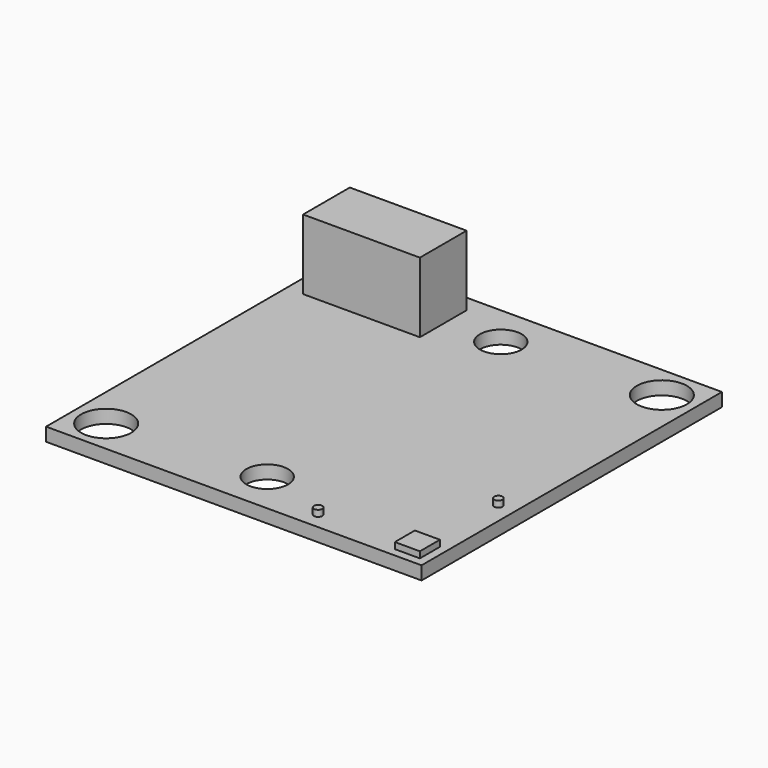
from build123d import *

# Parameters (mm, degrees)
F0_W     = 45
F0_H     = 45
F0_R     = 3
F0_R_2   = 2.5
F1_DEPTH = 1.6
F2_W     = 3
F2_H     = 3
F2_R     = 0.5
F3_DEPTH = 0.75
F4_W     = 25
F4_H     = 19
F5_DEPTH = 4
F6_W     = 14
F6_H     = 7
F7_DEPTH = 8.4


with BuildPart() as f1:
    # F0 (on Top) → F1 (new body)
    with BuildSketch(Plane.XY):
        Rectangle(F0_W, F0_H)
        with Locations((-18.5, -18.5)):
            Circle(F0_R, mode=Mode.SUBTRACT)
        with Locations((0, -17.5)):
            Circle(F0_R_2, mode=Mode.SUBTRACT)
        with Locations((0, 17.5)):
            Circle(F0_R_2, mode=Mode.SUBTRACT)
        with Locations((18.5, 18.5)):
            Circle(F0_R, mode=Mode.SUBTRACT)
    extrude(amount=F1_DEPTH)

    # F2 (on face) → F3 (join)
    with BuildSketch(Plane.XY.offset(1.6)):
        with Locations((20, -20)):
            Rectangle(F2_W, F2_H)
        with Locations((20.5, -8.5)):
            Circle(F2_R)
        with Locations((8.5, -20.5)):
            Circle(F2_R)
    extrude(amount=F3_DEPTH)

    # F4 (on face) → F5 (join)
    with BuildSketch(Plane(origin=(0, 0, 0), x_dir=(1, 0, 0), z_dir=(0, 0, -1))):
        with Locations((-8.769828, -2.14642)):
            Rectangle(F4_W, F4_H)
    extrude(amount=F5_DEPTH)

    # F6 (on face) → F7 (join)
    with BuildSketch(Plane.XY.offset(1.6)):
        with Locations((-13.5, 17)):
            Rectangle(F6_W, F6_H)
    extrude(amount=F7_DEPTH)


solid = f1.part
